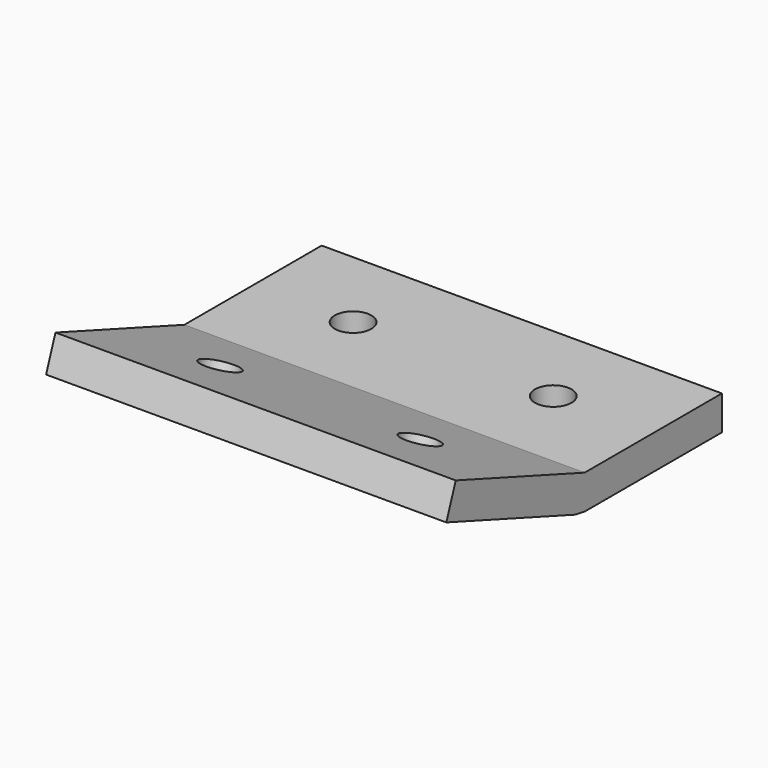
from build123d import *

# Parameters (mm, degrees)
F1_DEPTH = 3
F3_DEPTH = 35
F5_DEPTH = 25


with BuildPart() as f1:
    # F0 (on Top) → F1 (new body)
    with BuildSketch(Plane.XY):
        with BuildLine():
            Line((-17.5, 0), (-17.5, -7.5))
            Line((-17.5, -7.5), (17.5, -7.5))
            Line((17.5, -7.5), (17.5, 0))
            Line((17.5, 0), (10.35, 0))
            ThreePointArc((10.35, 0), (8.75, -1.6), (7.15, 0))
            Line((7.15, 0), (0, 0))
            Line((0, 0), (-7.15, 0))
            ThreePointArc((-7.15, 0), (-8.75, -1.6), (-10.35, 0))
            Line((-10.35, 0), (-17.5, 0))
        make_face()
        with BuildLine():
            Line((-17.5, 7.5), (-17.5, 0))
            Line((-17.5, 0), (-10.35, 0))
            ThreePointArc((-10.35, 0), (-8.75, 1.6), (-7.15, 0))
            Line((-7.15, 0), (0, 0))
            Line((0, 0), (7.15, 0))
            ThreePointArc((7.15, 0), (8.75, 1.6), (10.35, 0))
            Line((10.35, 0), (17.5, 0))
            Line((17.5, 0), (17.5, 7.5))
            Line((17.5, 7.5), (-17.5, 7.5))
        make_face()
    extrude(amount=F1_DEPTH)

    # F2 (on face) → F3 (join)
    with BuildSketch(Plane.YZ.offset(17.5)):
        Polygon((-8.52606043, 0.1809221376), (-7.5, 3), (-21.5953893118, 8.1303021499), (-22.6214497418, 5.3112242875), align=None)
        Polygon((-7.5, 0), (-7.5, 3), (-8.52606043, 0.1809221376), align=None)
    extrude(amount=-F3_DEPTH)

    # F4 (on face) → F5 (cut)
    with BuildSketch(Plane(origin=(0, -0.9392123538, -2.580464734), x_dir=(1, 0, 0), z_dir=(0, -0.3420201433, -0.9396926208))):
        with BuildLine():
            Line((10.35, 15.5737550859), (7.15, 15.5737550859))
            ThreePointArc((7.15, 15.5737550859), (8.75, 13.9737550859), (10.35, 15.5737550859))
        make_face()
        with BuildLine():
            ThreePointArc((10.35, 15.5737550859), (8.75, 17.1737550859), (7.15, 15.5737550859))
            Line((7.15, 15.5737550859), (10.35, 15.5737550859))
        make_face()
        with BuildLine():
            Line((-10.35, 15.5737550859), (-7.15, 15.5737550859))
            ThreePointArc((-7.15, 15.5737550859), (-8.75, 17.1737550859), (-10.35, 15.5737550859))
        make_face()
        with BuildLine():
            ThreePointArc((-10.35, 15.5737550859), (-8.75, 13.9737550859), (-7.15, 15.5737550859))
            Line((-7.15, 15.5737550859), (-10.35, 15.5737550859))
        make_face()
    extrude(amount=-F5_DEPTH, mode=Mode.SUBTRACT)


solid = f1.part
